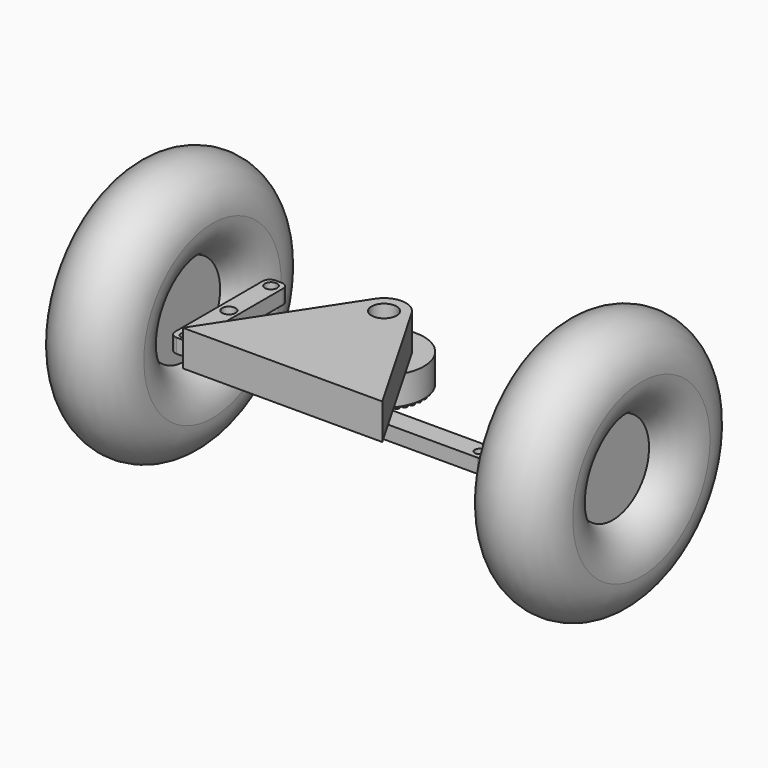
from build123d import *

# Parameters (mm, degrees)
F2_R      = 3.0773021281
F2_R_2    = 4.7069755099
F2_R_3    = 4.2936239123
F3_DEPTH  = 10
F2_R_4    = 3.9210033562
F2_R_5    = 3.2490268932
F4_R      = 27.9604797081
F4_R_2    = 6.7875740925
F5_DEPTH  = 20
F6_R      = 8.7565384721
F7_DEPTH  = 25
F8_R      = 1.8931265206
F10_DEPTH = 2
F9_R      = 1.7808307087
F11_DEPTH = 5


with BuildPart() as f1:
    # F0 (on Front) → F1 (revolve)
    with BuildSketch(Plane.XZ):
        with BuildLine():
            ThreePointArc((-140, 31.7157287525), (-125.5051025722, 42.6794919243), (-120, 60))
            ThreePointArc((-120, 60), (-167.3205080757, 84.4948974278), (-160, 31.7157287525))
            Line((-160, 31.7157287525), (-150, 31.7157287525))
            Line((-150, 31.7157287525), (-140, 31.7157287525))
        make_face()
        with BuildLine():
            Line((-150, 31.7157287525), (-160, 31.7157287525))
            ThreePointArc((-160, 31.7157287525), (-150, 30), (-140, 31.7157287525))
            Line((-140, 31.7157287525), (-150, 31.7157287525))
        make_face()
        with BuildLine():
            ThreePointArc((-140, 31.7157287525), (-150, 30), (-160, 31.7157287525))
            Line((-160, 31.7157287525), (-160, 0))
            Line((-160, 0), (-140, 0))
            Line((-140, 0), (-140, 31.7157287525))
        make_face()
    revolve(axis=Axis((-150, 0, 0), (1, 0, 0)))


with BuildPart() as f1b:
    # F0 (on Front) → F1, piece 2 (revolve)
    with BuildSketch(Plane.XZ):
        with BuildLine():
            ThreePointArc((140, 31.7157287525), (150, 30), (160, 31.7157287525))
            Line((160, 31.7157287525), (140, 31.7157287525))
        make_face()
        with BuildLine():
            Line((160, 0), (160, 31.7157287525))
            ThreePointArc((160, 31.7157287525), (150, 30), (140, 31.7157287525))
            Line((140, 31.7157287525), (140, 0))
            Line((140, 0), (160, 0))
        make_face()
        with BuildLine():
            Line((140, 31.7157287525), (160, 31.7157287525))
            ThreePointArc((160, 31.7157287525), (174.4948974278, 42.6794919243), (180, 60))
            ThreePointArc((180, 60), (132.6794919243, 84.4948974278), (140, 31.7157287525))
        make_face()
    revolve(axis=Axis((-150, 0, 0), (1, 0, 0)))


with BuildPart() as f3:
    # F2 (on Top) → F3 (new body)
    with BuildSketch(Plane.XY):
        with BuildLine():
            ThreePointArc((-115.8185899258, -37.8462140262), (-114.3541238317, -41.3817479321), (-110.8185899258, -42.8462140262))
            Line((-110.8185899258, -42.8462140262), (-106.644359529, -42.8462140262))
            ThreePointArc((-106.644359529, -42.8462140262), (-103.1088256231, -41.3817479321), (-101.644359529, -37.8462140262))
            Line((-101.644359529, -37.8462140262), (-101.644359529, 38.6912029982))
            ThreePointArc((-101.644359529, 38.6912029982), (-103.1088256231, 42.2267369041), (-106.644359529, 43.6912029982))
            Line((-106.644359529, 43.6912029982), (-110.8185899258, 43.6912029982))
            ThreePointArc((-110.8185899258, 43.6912029982), (-114.3541238317, 42.2267369041), (-115.8185899258, 38.6912029982))
            Line((-115.8185899258, 38.6912029982), (-115.8185899258, -37.8462140262))
        make_face()
        with Locations((-108.9069768786, -37.7001240849)):
            Circle(F2_R, mode=Mode.SUBTRACT)
        with Locations((-108.5358709097, 0)):
            Circle(F2_R_2, mode=Mode.SUBTRACT)
        with Locations((-108.7890937924, 37.1914170682)):
            Circle(F2_R_3, mode=Mode.SUBTRACT)
    extrude(amount=F3_DEPTH)


with BuildPart() as f3b:
    # F2 (on Top) → F3, piece 2 (new body)
    with BuildSketch(Plane.XY):
        with BuildLine():
            ThreePointArc((-93.4382230043, -46.0523468256), (-91.9737569103, -49.5878807315), (-88.4382230043, -51.0523468256))
            Line((-88.4382230043, -51.0523468256), (106.3421171904, -51.0523468256))
            ThreePointArc((106.3421171904, -51.0523468256), (109.8776510963, -49.5878807315), (111.3421171904, -46.0523468256))
            Line((111.3421171904, -46.0523468256), (111.3421171904, -41.5051105618))
            ThreePointArc((111.3421171904, -41.5051105618), (109.8776510963, -37.9695766559), (106.3421171904, -36.5051105618))
            Line((106.3421171904, -36.5051105618), (-88.4382230043, -36.5051105618))
            ThreePointArc((-88.4382230043, -36.5051105618), (-91.9737569103, -37.9695766559), (-93.4382230043, -41.5051105618))
            Line((-93.4382230043, -41.5051105618), (-93.4382230043, -46.0523468256))
        make_face()
        with Locations((-85.127837956, -43.9479760826)):
            Circle(F2_R_4, mode=Mode.SUBTRACT)
        with Locations((102.4514809251, -44.5913374424)):
            Circle(F2_R_5, mode=Mode.SUBTRACT)
    extrude(amount=F3_DEPTH)

    # F9 (on face) → F11 (join)
    with BuildSketch(Plane(origin=(0, 0, 0), x_dir=(1, 0, 0), z_dir=(0, 0, -1))):
        with Locations((-22.738724947, 39.9267338216)):
            Circle(F9_R)
        with Locations((-18.438724947, 39.9267338216)):
            Circle(F9_R)
        with Locations((-14.138724947, 39.9267338216)):
            Circle(F9_R)
        with Locations((-9.838724947, 39.9267338216)):
            Circle(F9_R)
        with Locations((-5.538724947, 39.9267338216)):
            Circle(F9_R)
        with Locations((-1.238724947, 39.9267338216)):
            Circle(F9_R)
        with Locations((3.061275053, 39.9267338216)):
            Circle(F9_R)
        with Locations((7.361275053, 39.9267338216)):
            Circle(F9_R)
        with Locations((11.661275053, 39.9267338216)):
            Circle(F9_R)
        with Locations((15.961275053, 39.9267338216)):
            Circle(F9_R)
        with Locations((20.261275053, 39.9267338216)):
            Circle(F9_R)
        with Locations((24.561275053, 39.9267338216)):
            Circle(F9_R)
        with Locations((28.861275053, 39.9267338216)):
            Circle(F9_R)
        with Locations((33.161275053, 39.9267338216)):
            Circle(F9_R)
        with Locations((37.461275053, 39.9267338216)):
            Circle(F9_R)
        with Locations((41.761275053, 39.9267338216)):
            Circle(F9_R)
    extrude(amount=F11_DEPTH)


with BuildPart() as f5:
    # F4 (on Top) → F5 (new body)
    with BuildSketch(Plane.XY):
        Circle(F4_R)
        Circle(F4_R_2, mode=Mode.SUBTRACT)
    extrude(amount=F5_DEPTH)

    # F6 (on face) → F7 (join)
    with BuildSketch(Plane.XY.offset(20)):
        with BuildLine():
            Line((-12.7963262437, 8.3838001825), (-73.414248221, -84.1382887214))
            Line((-73.414248221, -84.1382887214), (66.100186965, -84.1382887214))
            Line((66.100186965, -84.1382887214), (12.7963262437, 8.3838001825))
            ThreePointArc((12.7963262437, 8.3838001825), (0, 15.2981721404), (-12.7963262437, 8.3838001825))
        make_face()
        Circle(F6_R, mode=Mode.SUBTRACT)
    extrude(amount=F7_DEPTH)

    # F8 (on face) → F10 (join)
    with BuildSketch(Plane(origin=(0, 0, 0), x_dir=(1, 0, 0), z_dir=(0, 0, -1))):
        with Locations((0, 24.7086647651)):
            Circle(F8_R)
        with Locations((4.6749425522, 24.2623788324)):
            Circle(F8_R)
        with Locations((9.1810082253, 22.9396425962)):
            Circle(F8_R)
        with Locations((13.3554206214, 20.7882383693)):
            Circle(F8_R)
        with Locations((17.0473839329, 17.885883135)):
            Circle(F8_R)
        with Locations((20.123530266, 14.3374211107)):
            Circle(F8_R)
        with Locations((22.4727374012, 10.2710363728)):
            Circle(F8_R)
        with Locations((24.0101429544, 5.8336223551)):
            Circle(F8_R)
        with Locations((24.6802099328, 1.1854754937)):
            Circle(F8_R)
        with Locations((24.4587329436, -3.5054952953)):
            Circle(F8_R)
        with Locations((23.3537125863, -8.0698341314)):
            Circle(F8_R)
        with Locations((21.4050664401, -12.3426595663)):
            Circle(F8_R)
        with Locations((18.6831870875, -16.1696207354)):
            Circle(F8_R)
        with Locations((15.2863992642, -19.4124731039)):
            Circle(F8_R)
        with Locations((11.3374079918, -21.9540723899)):
            Circle(F8_R)
        with Locations((6.9788660012, -23.7026062662)):
            Circle(F8_R)
        with Locations((2.3682205682, -24.5949109739)):
            Circle(F8_R)
        with Locations((-2.3279740869, -24.59875304)):
            Circle(F8_R)
        with Locations((-6.9400733774, -23.7139936744)):
            Circle(F8_R)
        with Locations((-11.301470564, -21.9725937833)):
            Circle(F8_R)
        with Locations((-15.2546152304, -19.4374594185)):
            Circle(F8_R)
        with Locations((-18.656704609, -16.2001693697)):
            Circle(F8_R)
        with Locations((-21.3848421657, -12.3776669862)):
            Circle(F8_R)
        with Locations((-23.3404770946, -8.1080357345)):
            Circle(F8_R)
        with Locations((-24.4529643512, -3.545511093)):
            Circle(F8_R)
        with Locations((-24.6821166235, 1.1450910257)):
            Circle(F8_R)
        with Locations((-24.0196560512, 5.7943280589)):
            Circle(F8_R)
        with Locations((-22.4895132545, 10.2342517093)):
            Circle(F8_R)
        with Locations((-20.1469628676, 14.3044748832)):
            Circle(F8_R)
        with Locations((-17.0766268072, 17.8579654877)):
            Circle(F8_R)
        with Locations((-13.3894174034, 20.766357795)):
            Circle(F8_R)
        with Locations((-9.2185308208, 22.9245895052)):
            Circle(F8_R)
        with Locations((-4.7146355009, 24.2546970001)):
            Circle(F8_R)
    extrude(amount=F10_DEPTH)


solid = Compound([f1.part, f1b.part, f3.part, f3b.part, f5.part])
